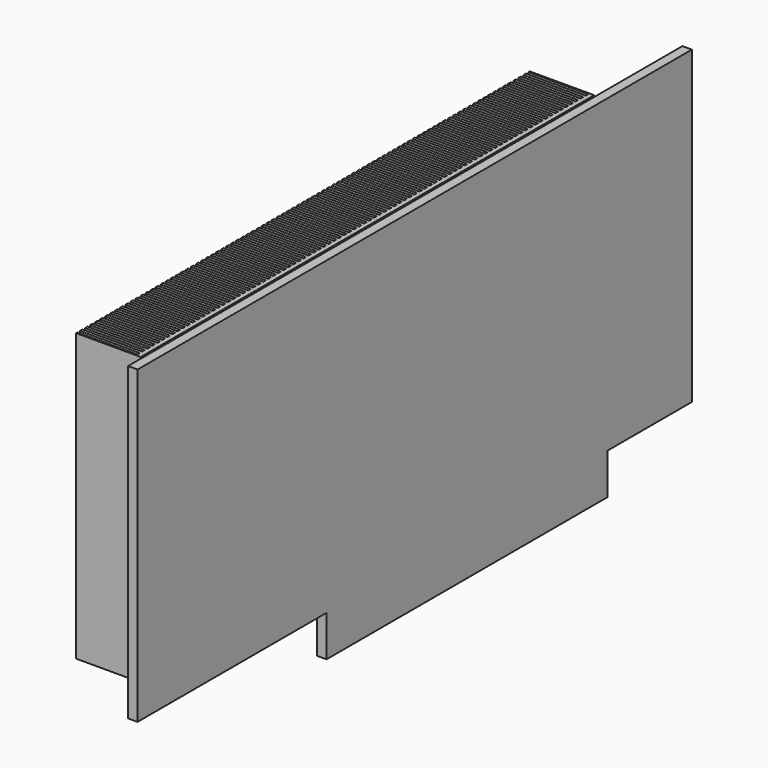
from build123d import *

# Parameters (mm, degrees)
F1_DEPTH = 3
F0_W     = 180
F0_H     = 90.5
F2_DEPTH = 3
F0_H_2   = 0.5
F3_DEPTH = 20.5
F4_W     = 1
F4_H     = 91
F5_DEPTH = 19


with BuildPart() as f1:
    # F0 (on Right) → F1 (new body)
    with BuildSketch(Plane.YZ):
        Polygon((-105, 55.75), (-110, 55.75), (-110, -42.75), (-35, -42.75), (-35, -55.75), (76.5, -55.75), (76.5, -42.75), (110, -42.75), (110, 55.75), (75, 55.75), (75, -34.75), (-105, -34.75), align=None)
    extrude(amount=F1_DEPTH)

    # F0 (on Right) → F2 (join)
    with BuildSketch(Plane.YZ):
        with Locations((-15, 10.5)):
            Rectangle(F0_W, F0_H)
    extrude(amount=F2_DEPTH)

    # F0 (on Right) → F3 (join)
    with BuildSketch(Plane.YZ):
        with Locations((-15, 56)):
            Rectangle(F0_W, F0_H_2)
        with Locations((-15, 10.5)):
            Rectangle(F0_W, F0_H)
    extrude(amount=-F3_DEPTH)

    # F4 (on face) → F5 (cut)
    with BuildSketch(Plane(origin=(-20.5, 0, 0), x_dir=(0, -1, 0), z_dir=(-1, 0, 0))):
        with Locations((-74, 10.75)):
            Rectangle(F4_W, F4_H)
        with Locations((-72, 10.75)):
            Rectangle(F4_W, F4_H)
        with Locations((-70, 10.75)):
            Rectangle(F4_W, F4_H)
        with Locations((-68, 10.75)):
            Rectangle(F4_W, F4_H)
        with Locations((-66, 10.75)):
            Rectangle(F4_W, F4_H)
        with Locations((-64, 10.75)):
            Rectangle(F4_W, F4_H)
        with Locations((-62, 10.75)):
            Rectangle(F4_W, F4_H)
        with Locations((-60, 10.75)):
            Rectangle(F4_W, F4_H)
        with Locations((-58, 10.75)):
            Rectangle(F4_W, F4_H)
        with Locations((-56, 10.75)):
            Rectangle(F4_W, F4_H)
        with Locations((-54, 10.75)):
            Rectangle(F4_W, F4_H)
        with Locations((-52, 10.75)):
            Rectangle(F4_W, F4_H)
        with Locations((-50, 10.75)):
            Rectangle(F4_W, F4_H)
        with Locations((-48, 10.75)):
            Rectangle(F4_W, F4_H)
        with Locations((-46, 10.75)):
            Rectangle(F4_W, F4_H)
        with Locations((-44, 10.75)):
            Rectangle(F4_W, F4_H)
        with Locations((-42, 10.75)):
            Rectangle(F4_W, F4_H)
        with Locations((-40, 10.75)):
            Rectangle(F4_W, F4_H)
        with Locations((-38, 10.75)):
            Rectangle(F4_W, F4_H)
        with Locations((-36, 10.75)):
            Rectangle(F4_W, F4_H)
        with Locations((-34, 10.75)):
            Rectangle(F4_W, F4_H)
        with Locations((-32, 10.75)):
            Rectangle(F4_W, F4_H)
        with Locations((-30, 10.75)):
            Rectangle(F4_W, F4_H)
        with Locations((-28, 10.75)):
            Rectangle(F4_W, F4_H)
        with Locations((-26, 10.75)):
            Rectangle(F4_W, F4_H)
        with Locations((-24, 10.75)):
            Rectangle(F4_W, F4_H)
        with Locations((-22, 10.75)):
            Rectangle(F4_W, F4_H)
        with Locations((-20, 10.75)):
            Rectangle(F4_W, F4_H)
        with Locations((-18, 10.75)):
            Rectangle(F4_W, F4_H)
        with Locations((-16, 10.75)):
            Rectangle(F4_W, F4_H)
        with Locations((-14, 10.75)):
            Rectangle(F4_W, F4_H)
        with Locations((-12, 10.75)):
            Rectangle(F4_W, F4_H)
        with Locations((-10, 10.75)):
            Rectangle(F4_W, F4_H)
        with Locations((-8, 10.75)):
            Rectangle(F4_W, F4_H)
        with Locations((-6, 10.75)):
            Rectangle(F4_W, F4_H)
        with Locations((-4, 10.75)):
            Rectangle(F4_W, F4_H)
        with Locations((-2, 10.75)):
            Rectangle(F4_W, F4_H)
        with Locations((0, 10.75)):
            Rectangle(F4_W, F4_H)
        with Locations((2, 10.75)):
            Rectangle(F4_W, F4_H)
        with Locations((4, 10.75)):
            Rectangle(F4_W, F4_H)
        with Locations((6, 10.75)):
            Rectangle(F4_W, F4_H)
        with Locations((8, 10.75)):
            Rectangle(F4_W, F4_H)
        with Locations((10, 10.75)):
            Rectangle(F4_W, F4_H)
        with Locations((12, 10.75)):
            Rectangle(F4_W, F4_H)
        with Locations((14, 10.75)):
            Rectangle(F4_W, F4_H)
        with Locations((16, 10.75)):
            Rectangle(F4_W, F4_H)
        with Locations((18, 10.75)):
            Rectangle(F4_W, F4_H)
        with Locations((20, 10.75)):
            Rectangle(F4_W, F4_H)
        with Locations((22, 10.75)):
            Rectangle(F4_W, F4_H)
        with Locations((24, 10.75)):
            Rectangle(F4_W, F4_H)
        with Locations((26, 10.75)):
            Rectangle(F4_W, F4_H)
        with Locations((28, 10.75)):
            Rectangle(F4_W, F4_H)
        with Locations((30, 10.75)):
            Rectangle(F4_W, F4_H)
        with Locations((32, 10.75)):
            Rectangle(F4_W, F4_H)
        with Locations((34, 10.75)):
            Rectangle(F4_W, F4_H)
        with Locations((36, 10.75)):
            Rectangle(F4_W, F4_H)
        with Locations((38, 10.75)):
            Rectangle(F4_W, F4_H)
        with Locations((40, 10.75)):
            Rectangle(F4_W, F4_H)
        with Locations((42, 10.75)):
            Rectangle(F4_W, F4_H)
        with Locations((44, 10.75)):
            Rectangle(F4_W, F4_H)
        with Locations((46, 10.75)):
            Rectangle(F4_W, F4_H)
        with Locations((48, 10.75)):
            Rectangle(F4_W, F4_H)
        with Locations((50, 10.75)):
            Rectangle(F4_W, F4_H)
        with Locations((52, 10.75)):
            Rectangle(F4_W, F4_H)
        with Locations((54, 10.75)):
            Rectangle(F4_W, F4_H)
        with Locations((56, 10.75)):
            Rectangle(F4_W, F4_H)
        with Locations((58, 10.75)):
            Rectangle(F4_W, F4_H)
        with Locations((60, 10.75)):
            Rectangle(F4_W, F4_H)
        with Locations((62, 10.75)):
            Rectangle(F4_W, F4_H)
        with Locations((64, 10.75)):
            Rectangle(F4_W, F4_H)
        with Locations((66, 10.75)):
            Rectangle(F4_W, F4_H)
        with Locations((68, 10.75)):
            Rectangle(F4_W, F4_H)
        with Locations((70, 10.75)):
            Rectangle(F4_W, F4_H)
        with Locations((72, 10.75)):
            Rectangle(F4_W, F4_H)
        with Locations((74, 10.75)):
            Rectangle(F4_W, F4_H)
        with Locations((76, 10.75)):
            Rectangle(F4_W, F4_H)
        with Locations((78, 10.75)):
            Rectangle(F4_W, F4_H)
        with Locations((80, 10.75)):
            Rectangle(F4_W, F4_H)
        with Locations((82, 10.75)):
            Rectangle(F4_W, F4_H)
        with Locations((84, 10.75)):
            Rectangle(F4_W, F4_H)
        with Locations((86, 10.75)):
            Rectangle(F4_W, F4_H)
        with Locations((88, 10.75)):
            Rectangle(F4_W, F4_H)
        with Locations((90, 10.75)):
            Rectangle(F4_W, F4_H)
        with Locations((92, 10.75)):
            Rectangle(F4_W, F4_H)
        with Locations((94, 10.75)):
            Rectangle(F4_W, F4_H)
        with Locations((96, 10.75)):
            Rectangle(F4_W, F4_H)
        with Locations((98, 10.75)):
            Rectangle(F4_W, F4_H)
        with Locations((100, 10.75)):
            Rectangle(F4_W, F4_H)
        with Locations((102, 10.75)):
            Rectangle(F4_W, F4_H)
        with Locations((104, 10.75)):
            Rectangle(F4_W, F4_H)
    extrude(amount=-F5_DEPTH, mode=Mode.SUBTRACT)


solid = f1.part
